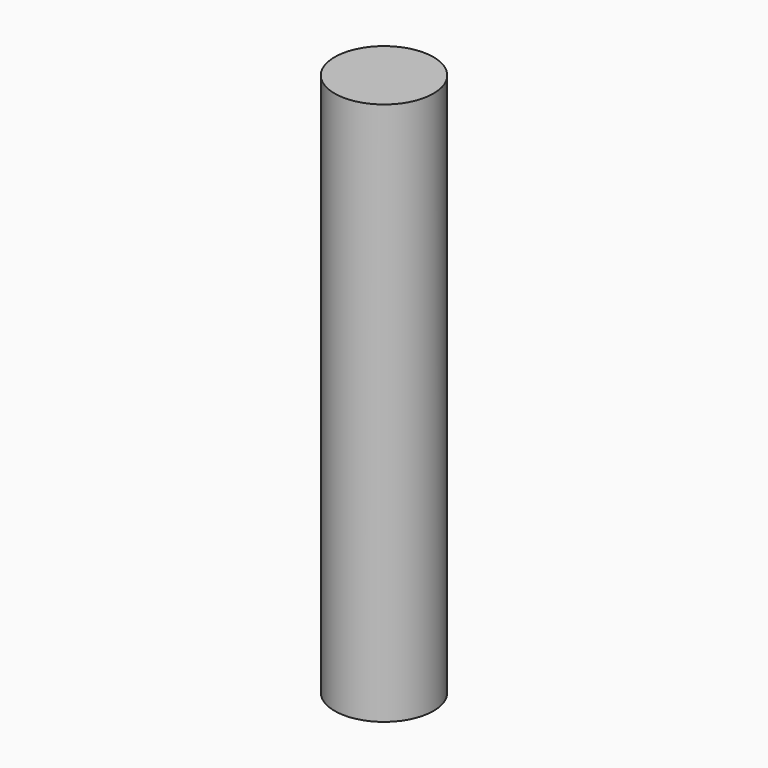
from build123d import *

# Parameters (mm, degrees)
F0_R     = 12.7
F1_DEPTH = 139.7
F2_W     = 6.35
F2_H     = 31.75
F3_DEPTH = 30.734


with BuildPart() as f1:
    # F0 (on Top) → F1 (new body)
    with BuildSketch(Plane.XY):
        Circle(F0_R)
    extrude(amount=F1_DEPTH)

    # F2 (on Front) → F3 (cut)
    with BuildSketch(Plane.XZ):
        with Locations((0, 73.676325)):
            Rectangle(F2_W, F2_H)
    extrude(amount=-F3_DEPTH, mode=Mode.SUBTRACT)


solid = f1.part
